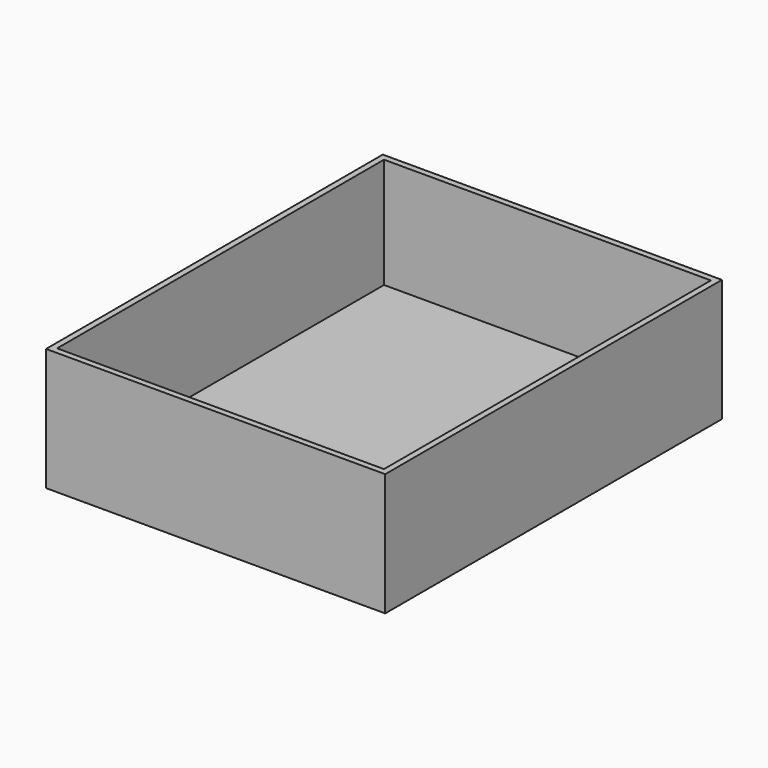
from build123d import *

# Parameters (mm, degrees)
F0_W     = 83
F0_H     = 103
F1_DEPTH = 30
F2_W     = 80
F2_H     = 100
F3_DEPTH = 27


with BuildPart() as f1:
    # F0 (on Top) → F1 (new body)
    with BuildSketch(Plane.XY):
        Rectangle(F0_W, F0_H)
    extrude(amount=-F1_DEPTH)

    # F2 (on Top) → F3 (cut)
    with BuildSketch(Plane.XY):
        Rectangle(F2_W, F2_H)
    extrude(amount=-F3_DEPTH, mode=Mode.SUBTRACT)


solid = f1.part
